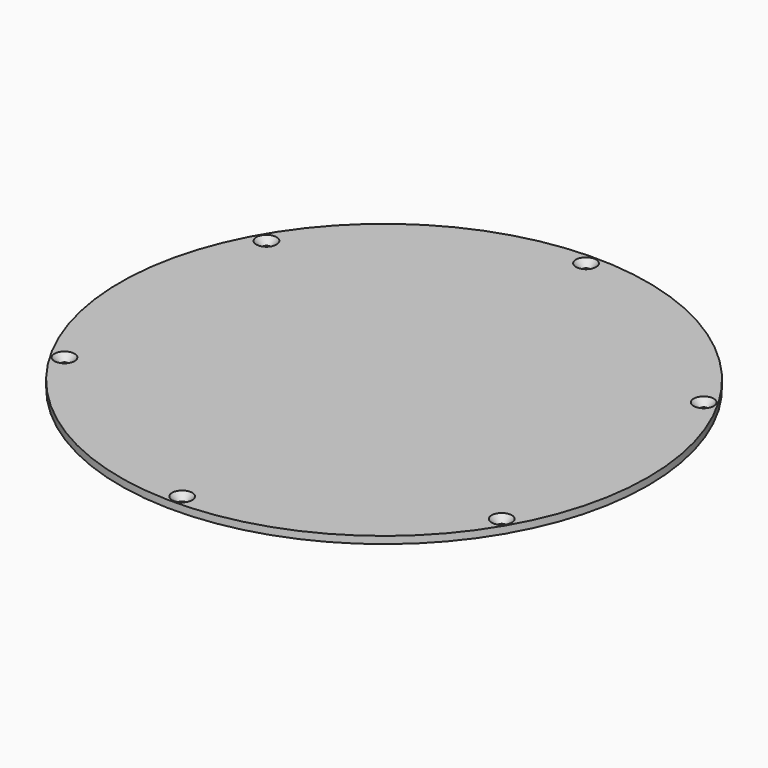
from build123d import *

# Parameters (mm, degrees)
F0_R     = 110
F0_R_2   = 1.6
F1_DEPTH = 3
F2_SIZE  = 2.6


with BuildPart() as f1:
    # F0 (on Top) → F1 (new body)
    with BuildSketch(Plane.XY):
        Circle(F0_R)
        with Locations((-91.105872, -52.6)):
            Circle(F0_R_2, mode=Mode.SUBTRACT)
        with Locations((0, -105.2)):
            Circle(F0_R_2, mode=Mode.SUBTRACT)
        with Locations((91.105872, -52.6)):
            Circle(F0_R_2, mode=Mode.SUBTRACT)
        with Locations((-91.105872, 52.6)):
            Circle(F0_R_2, mode=Mode.SUBTRACT)
        with Locations((91.105872, 52.6)):
            Circle(F0_R_2, mode=Mode.SUBTRACT)
        with Locations((0, 105.2)):
            Circle(F0_R_2, mode=Mode.SUBTRACT)
    extrude(amount=F1_DEPTH)

    # F2
    f2_edges = [f1.edges().sort_by_distance(p)[0] for p in [
        (-92.705872, 52.6, 3),
        (-1.6, 105.2, 3),
        (89.505872, 52.6, 3),
        (89.505872, -52.6, 3),
        (-1.6, -105.2, 3),
        (-92.705872, -52.6, 3),
    ]]
    chamfer(f2_edges, length=F2_SIZE)


solid = f1.part
